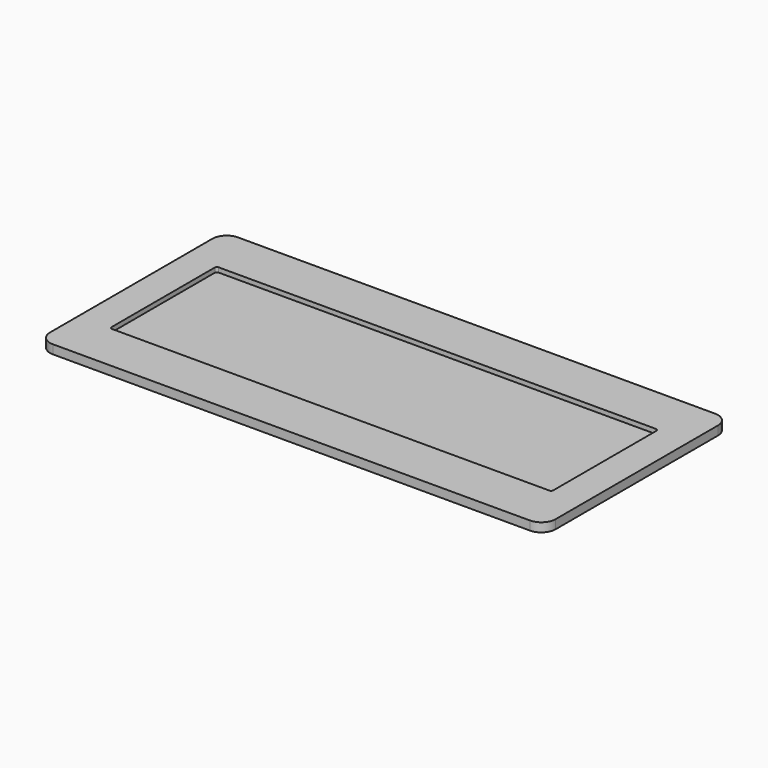
from build123d import *

# Parameters (mm, degrees)
PAD_DEPTH    = 1.65
PAD001_DEPTH = 1.524


with BuildPart() as part:
    # Sketch → Pad (new body)
    with BuildSketch(Plane.XY):
        with BuildLine():
            ThreePointArc((-90.17, -36.195), (-88.682102, -39.787102), (-85.09, -41.275))
            Line((85.09, -41.275), (-85.09, -41.275))
            ThreePointArc((85.09, -41.275), (88.682102, -39.787102), (90.17, -36.195))
            Line((90.17, 36.195), (90.17, -36.195))
            ThreePointArc((90.17, 36.195), (88.682102, 39.787102), (85.09, 41.275))
            Line((-85.09, 41.275), (85.09, 41.275))
            ThreePointArc((-85.09, 41.275), (-88.682102, 39.787102), (-90.17, 36.195))
            Line((-90.17, -36.195), (-90.17, 36.195))
        make_face()
        with BuildLine():
            ThreePointArc((-78.8, -23.038), (-78.576815, -23.576815), (-78.038, -23.8))
            Line((78.038, -23.8), (-78.038, -23.8))
            ThreePointArc((78.038, -23.8), (78.576815, -23.576815), (78.8, -23.038))
            Line((78.8, 23.038), (78.8, -23.038))
            ThreePointArc((78.8, 23.038), (78.576815, 23.576815), (78.038, 23.8))
            Line((-78.038, 23.8), (78.038, 23.8))
            ThreePointArc((-78.038, 23.8), (-78.576815, 23.576815), (-78.8, 23.038))
            Line((-78.8, -23.038), (-78.8, 23.038))
        make_face(mode=Mode.SUBTRACT)
    extrude(amount=PAD_DEPTH)

    # Sketch001 (on Face17 of Pad) → Pad001 (join)
    with BuildSketch(Plane(origin=(0, 0, 0), x_dir=(1, 0, 0), z_dir=(0, 0, -1))):
        with BuildLine():
            ThreePointArc((-90.17, -36.195), (-88.682102, -39.787102), (-85.09, -41.275))
            Line((85.09, -41.275), (-85.09, -41.275))
            ThreePointArc((85.09, -41.275), (88.682102, -39.787102), (90.17, -36.195))
            Line((90.17, 36.195), (90.17, -36.195))
            ThreePointArc((90.17, 36.195), (88.682102, 39.787102), (85.09, 41.275))
            Line((-85.09, 41.275), (85.09, 41.275))
            ThreePointArc((-85.09, 41.275), (-88.682102, 39.787102), (-90.17, 36.195))
            Line((-90.17, -36.195), (-90.17, 36.195))
        make_face()
    extrude(amount=PAD001_DEPTH)


solid = part.part
